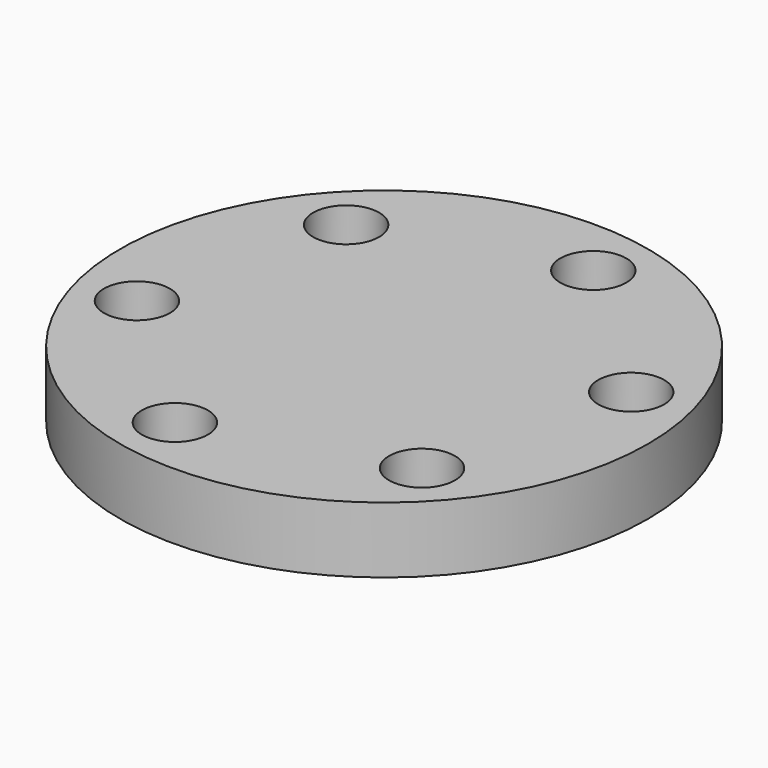
from build123d import *

# Parameters (mm, degrees)
F0_R     = 25.4
F0_R_2   = 3.175
F1_DEPTH = 6.35


with BuildPart() as f1:
    # F0 (on Top) → F1 (new body)
    with BuildSketch(Plane.XY):
        Circle(F0_R)
        with Locations((-4.549542, -19.478705)):
            Circle(F0_R_2, mode=Mode.SUBTRACT)
        with Locations((-19.143824, -5.799333)):
            Circle(F0_R_2, mode=Mode.SUBTRACT)
        with Locations((14.594282, -13.679371)):
            Circle(F0_R_2, mode=Mode.SUBTRACT)
        with Locations((-14.594282, 13.679371)):
            Circle(F0_R_2, mode=Mode.SUBTRACT)
        with Locations((19.143824, 5.799333)):
            Circle(F0_R_2, mode=Mode.SUBTRACT)
        with Locations((4.549542, 19.478705)):
            Circle(F0_R_2, mode=Mode.SUBTRACT)
    extrude(amount=F1_DEPTH)


solid = f1.part
